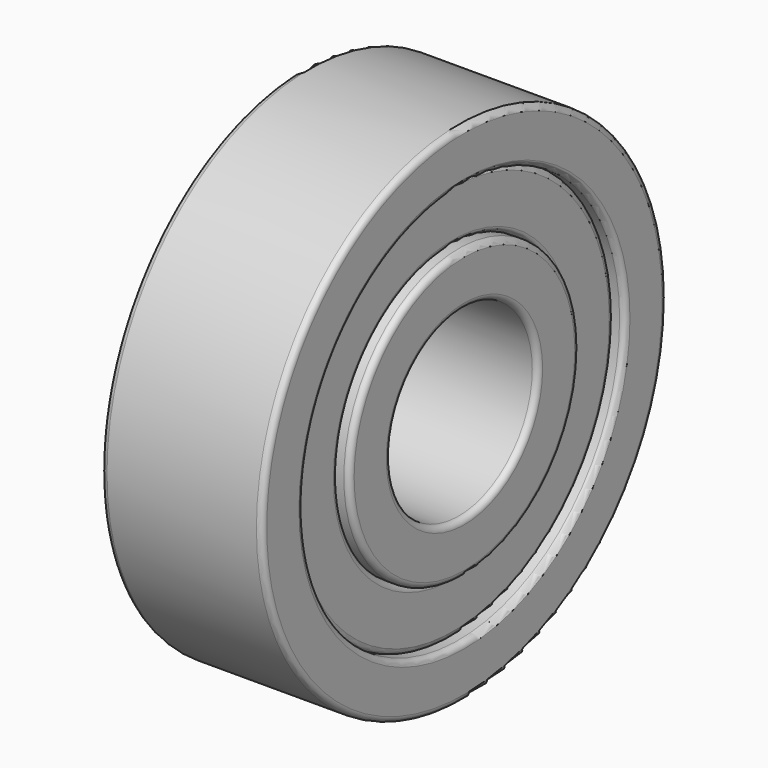
from build123d import *

# Parameters (mm, degrees)
F0_R     = 11
F0_R_2   = 8.75
F1_DEPTH = 3.5
F2_R     = 0.25
F3_R     = 0.25
F4_R     = 6.25
F4_R_2   = 4
F5_DEPTH = 3.5
F6_R     = 0.25
F7_R     = 0.25
F8_R     = 8.75
F8_R_2   = 6.25
F9_DEPTH = 3
F10_R    = 0.25
F11_R    = 0.25


with BuildPart() as f1:
    # F0 (on Right) → F1 (new body, symmetric)
    with BuildSketch(Plane.YZ):
        Circle(F0_R)
        Circle(F0_R_2, mode=Mode.SUBTRACT)
    extrude(amount=F1_DEPTH, both=True)

    # F2
    f2_edges = [f1.edges().sort_by_distance(p)[0] for p in [
        (-3.5, -11, 0),
        (0, 11, 0),
        (3.5, -11, 0),
        (3.5, -8.75, 0),
    ]]
    fillet(f2_edges, radius=F2_R)

    # F3
    f3_edges = [f1.edges().sort_by_distance(p)[0] for p in [
        (-0.125, 8.75, 0),
        (3.25, -8.75, 0),
        (-3.5, -8.75, 0),
    ]]
    fillet(f3_edges, radius=F3_R)


with BuildPart() as f5:
    # F4 (on Right) → F5 (new body, symmetric)
    with BuildSketch(Plane.YZ):
        Circle(F4_R)
        Circle(F4_R_2, mode=Mode.SUBTRACT)
    extrude(amount=F5_DEPTH, both=True)

    # F6
    f6_edges = [f5.edges().sort_by_distance(p)[0] for p in [
        (3.5, -4, 0),
        (0, 4, 0),
        (-3.5, -4, 0),
    ]]
    fillet(f6_edges, radius=F6_R)

    # F7
    f7_edges = [f5.edges().sort_by_distance(p)[0] for p in [
        (-3.5, -6.25, 0),
        (0, 6.25, 0),
        (3.5, -6.25, 0),
    ]]
    fillet(f7_edges, radius=F7_R)


with BuildPart() as f9:
    # F8 (on Right) → F9 (new body, symmetric)
    with BuildSketch(Plane.YZ):
        Circle(F8_R)
        Circle(F8_R_2, mode=Mode.SUBTRACT)
    extrude(amount=F9_DEPTH, both=True)

    # F10
    f10_edges = [f9.edges().sort_by_distance(p)[0] for p in [
        (3, -6.25, 0),
        (0, 6.25, 0),
        (-3, -6.25, 0),
    ]]
    fillet(f10_edges, radius=F10_R)

    # F11
    f11_edges = [f9.edges().sort_by_distance(p)[0] for p in [
        (-3, -8.75, 0),
        (0, 8.75, 0),
        (3, -8.75, 0),
    ]]
    fillet(f11_edges, radius=F11_R)


solid = Compound([f1.part, f5.part, f9.part])
